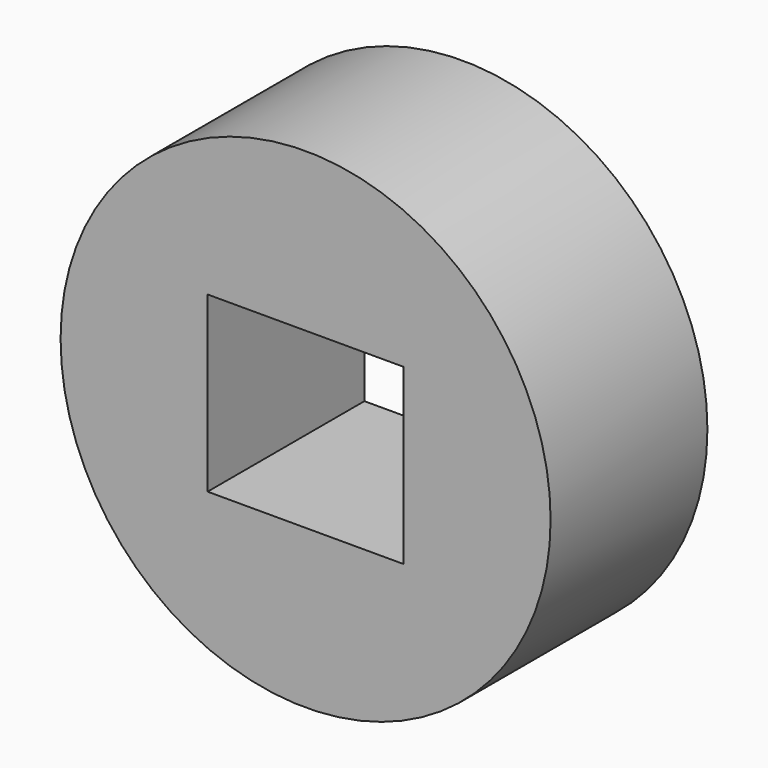
from build123d import *

# Parameters (mm, degrees)
F0_R     = 63.5
F0_W     = 50.8
F0_H     = 44.99425
F1_DEPTH = 50.8


with BuildPart() as f1:
    # F0 (on Front) → F1 (new body)
    with BuildSketch(Plane.XZ):
        Circle(F0_R)
        Rectangle(F0_W, F0_H, mode=Mode.SUBTRACT)
    extrude(amount=F1_DEPTH)


solid = f1.part
